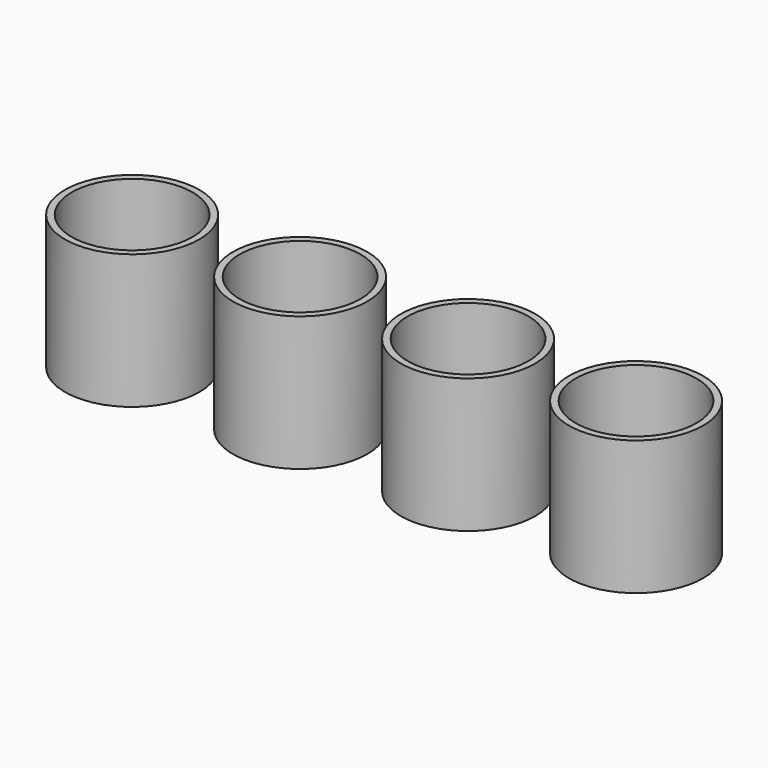
from build123d import *

# Parameters (mm, degrees)
F0_R     = 10
F0_R_2   = 9
F1_DEPTH = 20


with BuildPart() as f1:
    # F0 (on Top) → F1 (new body)
    with BuildSketch(Plane.XY):
        Circle(F0_R)
        Circle(F0_R_2, mode=Mode.SUBTRACT)
        with Locations((25, 0)):
            Circle(F0_R)
        with Locations((25, 0)):
            Circle(F0_R_2, mode=Mode.SUBTRACT)
        with Locations((50, 0)):
            Circle(F0_R)
        with Locations((50, 0)):
            Circle(F0_R_2, mode=Mode.SUBTRACT)
        with Locations((75, 0)):
            Circle(F0_R)
        with Locations((75, 0)):
            Circle(F0_R_2, mode=Mode.SUBTRACT)
    extrude(amount=-F1_DEPTH)


solid = f1.part
